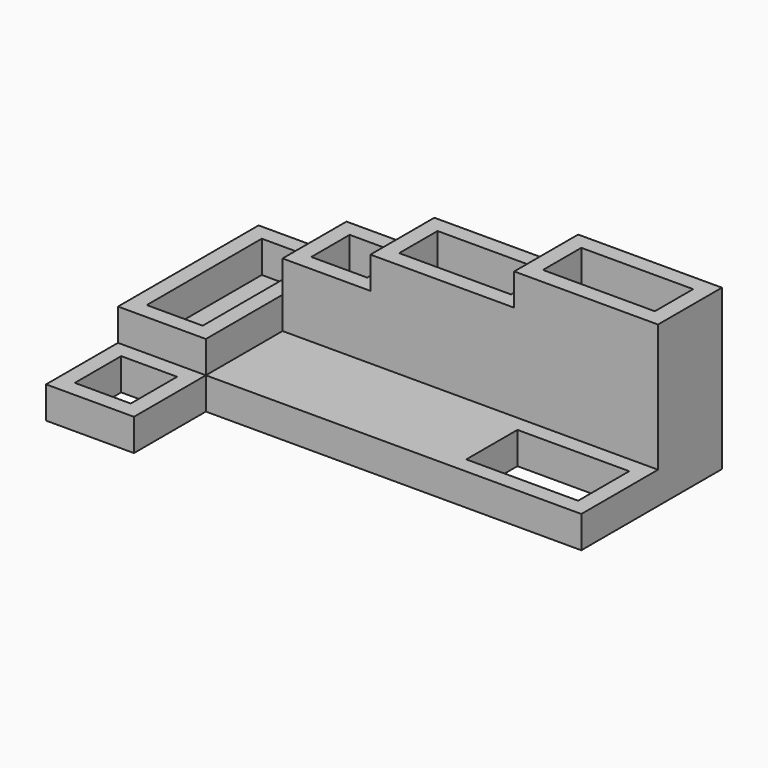
from build123d import *

# Parameters (mm, degrees)
F0_W     = 350
F0_H     = 362.663257
F0_W_2   = 700
F0_H_2   = 400
F1_DEPTH = 200
F2_W     = 900
F2_H     = 500
F2_W_2   = 700
F2_H_2   = 300
F3_DEPTH = 800
F4_W     = 900
F4_H     = 500
F4_W_2   = 700
F4_H_2   = 300
F5_DEPTH = 600
F6_W     = 550
F6_H     = 500
F6_W_2   = 350
F6_H_2   = 300
F7_DEPTH = 400
F8_W     = 550
F8_H     = 1100
F8_W_2   = 350
F8_H_2   = 900
F9_DEPTH = 200


with BuildPart() as f1:
    # F0 (on Top) → F1 (new body)
    with BuildSketch(Plane.XY):
        Polygon((-2350, 0), (0, 0), (0, 1100), (-2900, 1100), (-2900, 0), (-2900, -562.663257), (-2350, -562.663257), align=None)
        with Locations((-2625, -281.331628)):
            Rectangle(F0_W, F0_H, mode=Mode.SUBTRACT)
        with Locations((-450, 300)):
            Rectangle(F0_W_2, F0_H_2, mode=Mode.SUBTRACT)
    extrude(amount=F1_DEPTH)

    # F2 (on face) → F3 (join)
    with BuildSketch(Plane.XY.offset(200)):
        with Locations((-450, 850)):
            Rectangle(F2_W, F2_H)
        with Locations((-450, 850)):
            Rectangle(F2_W_2, F2_H_2, mode=Mode.SUBTRACT)
    extrude(amount=F3_DEPTH)

    # F4 (on face) → F5 (join)
    with BuildSketch(Plane.XY.offset(200)):
        with Locations((-1350, 850)):
            Rectangle(F4_W, F4_H)
        with Locations((-1350, 850)):
            Rectangle(F4_W_2, F4_H_2, mode=Mode.SUBTRACT)
    extrude(amount=F5_DEPTH)

    # F6 (on face) → F7 (join)
    with BuildSketch(Plane.XY.offset(200)):
        with Locations((-2075, 850)):
            Rectangle(F6_W, F6_H)
        with Locations((-2075, 850)):
            Rectangle(F6_W_2, F6_H_2, mode=Mode.SUBTRACT)
    extrude(amount=F7_DEPTH)

    # F8 (on face) → F9 (join)
    with BuildSketch(Plane.XY.offset(200)):
        with Locations((-2625, 550)):
            Rectangle(F8_W, F8_H)
        with Locations((-2625, 550)):
            Rectangle(F8_W_2, F8_H_2, mode=Mode.SUBTRACT)
    extrude(amount=F9_DEPTH)


solid = f1.part
